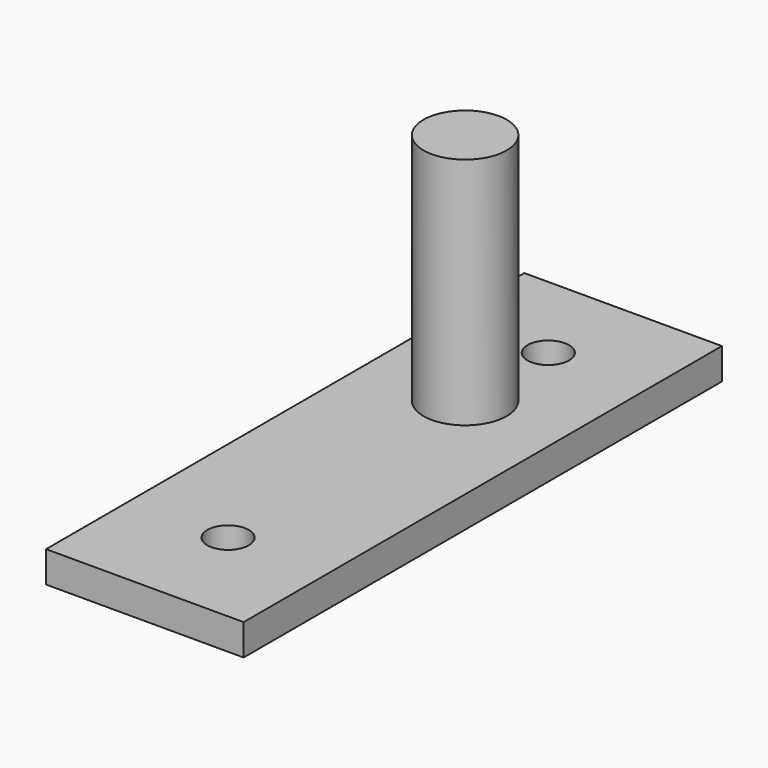
from build123d import *

# Parameters (mm, degrees)
F1_DEPTH = 6
F2_R     = 8
F3_DEPTH = 45
F2_R_2   = 4
F4_DEPTH = 6


with BuildPart() as f1:
    # F0 (on Top) → F1 (new body)
    with BuildSketch(Plane.XY):
        Polygon((19, 57.5), (0, 57.5), (-19, 57.5), (-19, 0), (-19, -57.5), (0, -57.5), (19, -57.5), (19, 0), align=None)
    extrude(amount=F1_DEPTH)

    # F2 (on face) → F3 (join)
    with BuildSketch(Plane.XY.offset(6)):
        with Locations((0, 19.5)):
            Circle(F2_R)
    extrude(amount=F3_DEPTH)

    # F2 (on face) → F4 (cut)
    with BuildSketch(Plane.XY.offset(6)):
        with Locations((0, -37.5)):
            Circle(F2_R_2)
        with Locations((0, 39.5)):
            Circle(F2_R_2)
    extrude(amount=-F4_DEPTH, mode=Mode.SUBTRACT)


solid = f1.part
